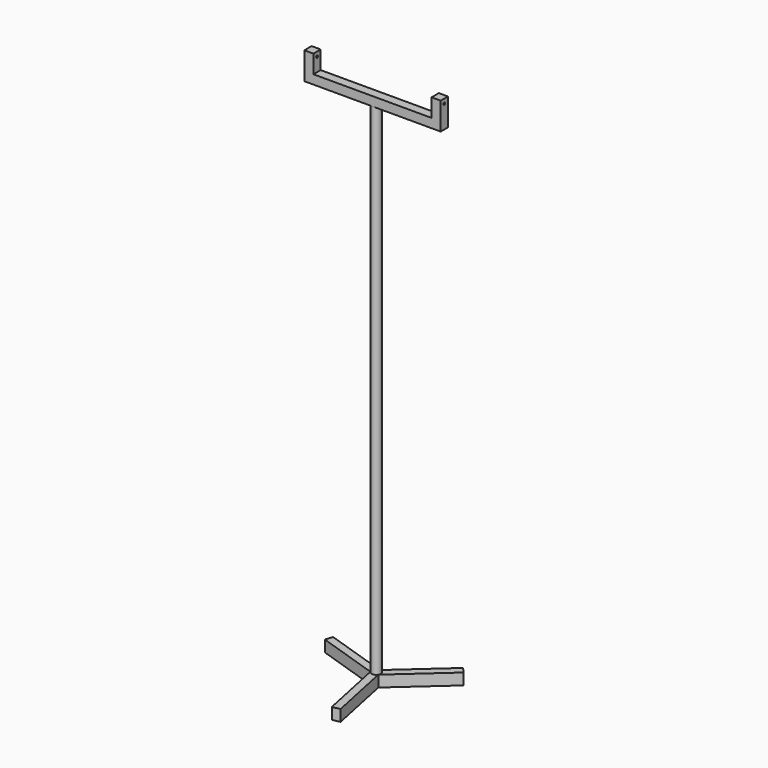
from build123d import *

# Parameters (mm, degrees)
F1_DEPTH = 25
F2_R     = 10
F3_DEPTH = 1100
F4_W     = 300
F4_H     = 20
F5_DEPTH = 20
F6_W     = 20
F6_H     = 20
F7_DEPTH = 40
F8_R     = 2.5
F9_DEPTH = 500


with BuildPart() as f1:
    # F0 (on Top) → F1 (new body)
    with BuildSketch(Plane.XY):
        Polygon((106.8678610383, 105.5250451441), (-0.0482127534, 10.0158751169), (-139.5044833357, 55.9349410156), (-144.8213003494, 39.7877599353), (-8.6498959157, -5.0496910277), (21.3111617891, -148.7818970183), (37.9534393111, -145.3128050793), (8.6981086691, -4.9661840892), (118.1933215466, 92.8469560027), align=None)
        with BuildLine():
            Line((-8.6269494076, -5.0572466738), (-8.6498959157, -5.0496910277))
            Line((-8.6498959157, -5.0496910277), (-8.6602540378, -5))
            ThreePointArc((-8.6602540378, -5), (-8.6436491157, -5.0286509089), (-8.6269494076, -5.0572466738))
        make_face(mode=Mode.SUBTRACT)
        with BuildLine():
            Line((-0.0482127534, 10.0158751169), (0, 10))
            ThreePointArc((0, 10), (-0.033114876, 9.9999451701), (-0.0662293889, 9.999780681))
            Line((-0.0662293889, 9.999780681), (-0.0482127534, 10.0158751169))
        make_face(mode=Mode.SUBTRACT)
        with BuildLine():
            Line((8.6931787965, -4.9425340072), (8.6981086691, -4.9661840892))
            Line((8.6981086691, -4.9661840892), (8.6602540378, -5))
            ThreePointArc((8.6602540378, -5), (8.6767639918, -4.9712942612), (8.6931787965, -4.9425340072))
        make_face(mode=Mode.SUBTRACT)
        with BuildLine():
            Line((-8.6602540378, -5), (-8.6498959157, -5.0496910277))
            Line((-8.6498959157, -5.0496910277), (-8.6269494076, -5.0572466738))
            ThreePointArc((-8.6269494076, -5.0572466738), (-8.6436491157, -5.0286509089), (-8.6602540378, -5))
        make_face()
        with BuildLine():
            Line((8.6602540378, -5), (8.6981086691, -4.9661840892))
            Line((8.6981086691, -4.9661840892), (8.6931787965, -4.9425340072))
            ThreePointArc((8.6931787965, -4.9425340072), (8.6767639918, -4.9712942612), (8.6602540378, -5))
        make_face()
        with BuildLine():
            ThreePointArc((-0.0662293889, 9.999780681), (-0.033114876, 9.9999451701), (0, 10))
            Line((0, 10), (-0.0482127534, 10.0158751169))
            Line((-0.0482127534, 10.0158751169), (-0.0662293889, 9.999780681))
        make_face()
    extrude(amount=F1_DEPTH)


with BuildPart() as f3:
    # F2 (on face) → F3 (new body)
    with BuildSketch(Plane.XY.offset(25)):
        Circle(F2_R)
    extrude(amount=F3_DEPTH)

    # F4 (on face) → F5 (join)
    with BuildSketch(Plane.XY.offset(1125)):
        Rectangle(F4_W, F4_H)
    extrude(amount=F5_DEPTH)

    # F6 (on face) → F7 (join)
    with BuildSketch(Plane.XY.offset(1145)):
        with Locations((-140, 0)):
            Rectangle(F6_W, F6_H)
        with Locations((140, 0)):
            Rectangle(F6_W, F6_H)
    extrude(amount=F7_DEPTH)

    # F8 (on face) → F9 (cut)
    with BuildSketch(Plane(origin=(-150, 0, 0), x_dir=(0, -1, 0), z_dir=(-1, 0, 0))):
        with Locations((0, 1175)):
            Circle(F8_R)
    extrude(amount=-F9_DEPTH, mode=Mode.SUBTRACT)


solid = Compound([f1.part, f3.part])
